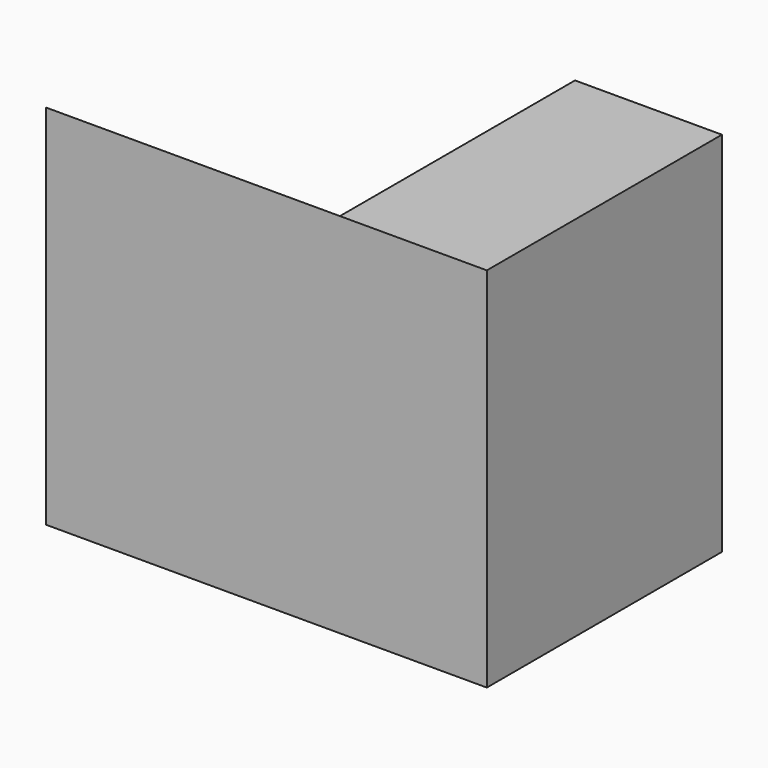
from build123d import *

# Parameters (mm, degrees)
F0_W     = 38.1
F0_H     = 31.75
F1_DEPTH = 25.4
F3_DEPTH = 25.4


with BuildPart() as f1:
    # F0 (on Front) → F1 (new body)
    with BuildSketch(Plane.XZ):
        with Locations((19.05, 15.875)):
            Rectangle(F0_W, F0_H)
        with Locations((19.05, 15.875)):
            Rectangle(F0_W, F0_H)
    extrude(amount=F1_DEPTH)

    # F2 (on face) → F3 (cut)
    with BuildSketch(Plane(origin=(0, 0, 0), x_dir=(0, -1, 0), z_dir=(-1, 0, 0))):
        Polygon((0, 31.75), (0, 0), (25.4, 31.75), align=None)
    extrude(amount=-F3_DEPTH, mode=Mode.SUBTRACT)


solid = f1.part
